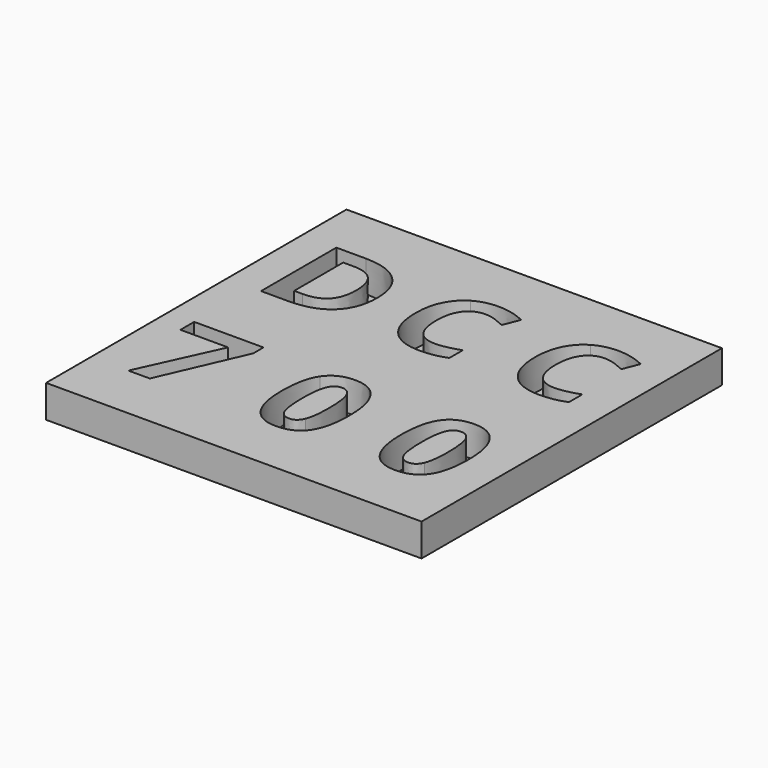
from build123d import *

# Parameters (mm, degrees)
F0_W     = 76.2
F0_H     = 76.2
F1_DEPTH = 6.35
F2_W     = 76.2
F2_H     = 76.2
F3_DEPTH = 0.254


with BuildPart() as f1:
    # F0 (on Top) → F1 (new body)
    with BuildSketch(Plane.XY):
        Rectangle(F0_W, F0_H)
        Polygon((-26.1997501053, -26.6633986117), (-30.5446360985, -26.6633986117), (-23.1844935868, -10.5791710949), (-32.8478974789, -10.5791710949), (-32.8478974789, -7.0921105693), (-18.7881380656, -7.0921105693), (-18.7881380656, -9.6956108634), align=None, mode=Mode.SUBTRACT)
        with BuildLine():
            add(Edge.make_bspline(
                [(4.7201846353, -9.3310350396), (6.4551366434, -11.9045114423), (6.4551366434, -16.8670317722)],
                knots=[0, 0, 0, 1, 1, 1], degree=2))
            add(Edge.make_bspline(
                [(6.4551366434, -16.8670317722), (6.4551366434, -21.9968280682), (4.773798727, -24.4652208511)],
                knots=[0, 0, 0, 1, 1, 1], degree=2))
            add(Edge.make_bspline(
                [(4.773798727, -24.4652208511), (3.0924608106, -26.933613634), (-0.4074670971, -26.933613634)],
                knots=[0, 0, 0, 1, 1, 1], degree=2))
            add(Edge.make_bspline(
                [(-0.4074670971, -26.933613634), (-3.8001668213, -26.933613634), (-5.5222514474, -24.3858719953)],
                knots=[0, 0, 0, 1, 1, 1], degree=2))
            add(Edge.make_bspline(
                [(-5.5222514474, -24.3858719953), (-7.2443360735, -21.8381303567), (-7.2443360735, -16.8670317722)],
                knots=[0, 0, 0, 1, 1, 1], degree=2))
            add(Edge.make_bspline(
                [(-7.2443360735, -16.8670317722), (-7.2443360735, -11.6771876934), (-5.5672872845, -9.2173731652)],
                knots=[0, 0, 0, 1, 1, 1], degree=2))
            add(Edge.make_bspline(
                [(-5.5672872845, -9.2173731652), (-3.8902384954, -6.757558637), (-0.4074670971, -6.757558637)],
                knots=[0, 0, 0, 1, 1, 1], degree=2))
            add(Edge.make_bspline(
                [(-0.4074670971, -6.757558637), (2.9852326271, -6.757558637), (4.7201846353, -9.3310350396)],
                knots=[0, 0, 0, 1, 1, 1], degree=2))
        make_face(mode=Mode.SUBTRACT)
        with BuildLine():
            add(Edge.make_bspline(
                [(28.8993512339, -9.3310350396), (30.6343032421, -11.9045114423), (30.6343032421, -16.8670317722)],
                knots=[0, 0, 0, 1, 1, 1], degree=2))
            add(Edge.make_bspline(
                [(30.6343032421, -16.8670317722), (30.6343032421, -21.9968280682), (28.9529653256, -24.4652208511)],
                knots=[0, 0, 0, 1, 1, 1], degree=2))
            add(Edge.make_bspline(
                [(28.9529653256, -24.4652208511), (27.2716274092, -26.933613634), (23.7716995016, -26.933613634)],
                knots=[0, 0, 0, 1, 1, 1], degree=2))
            add(Edge.make_bspline(
                [(23.7716995016, -26.933613634), (20.3789997774, -26.933613634), (18.6569151512, -24.3858719953)],
                knots=[0, 0, 0, 1, 1, 1], degree=2))
            add(Edge.make_bspline(
                [(18.6569151512, -24.3858719953), (16.9348305251, -21.8381303567), (16.9348305251, -16.8670317722)],
                knots=[0, 0, 0, 1, 1, 1], degree=2))
            add(Edge.make_bspline(
                [(16.9348305251, -16.8670317722), (16.9348305251, -11.6771876934), (18.6118793142, -9.2173731652)],
                knots=[0, 0, 0, 1, 1, 1], degree=2))
            add(Edge.make_bspline(
                [(18.6118793142, -9.2173731652), (20.2889281033, -6.757558637), (23.7716995016, -6.757558637)],
                knots=[0, 0, 0, 1, 1, 1], degree=2))
            add(Edge.make_bspline(
                [(23.7716995016, -6.757558637), (27.1643992258, -6.757558637), (28.8993512339, -9.3310350396)],
                knots=[0, 0, 0, 1, 1, 1], degree=2))
        make_face(mode=Mode.SUBTRACT)
        with BuildLine():
            add(Edge.make_bspline(
                [(-17.9196880537, 24.4092303388), (-15.3316932729, 21.9403920221), (-15.3316932729, 17.5086077449)],
                knots=[0, 0, 0, 1, 1, 1], degree=2))
            add(Edge.make_bspline(
                [(-15.3316932729, 17.5086077449), (-15.3316932729, 12.7925203253), (-18.017939875, 10.2839631872)],
                knots=[0, 0, 0, 1, 1, 1], degree=2))
            add(Edge.make_bspline(
                [(-18.017939875, 10.2839631872), (-20.704186477, 7.7754060491), (-25.7714718959, 7.7754060491)],
                knots=[0, 0, 0, 1, 1, 1], degree=2))
            Line((-25.7714718959, 7.7754060491), (-31.181593457, 7.7754060491))
            Line((-31.181593457, 7.7754060491), (-31.181593457, 26.8780686555))
            Line((-31.181593457, 26.8780686555), (-25.186141897, 26.8780686555))
            add(Edge.make_bspline(
                [(-25.186141897, 26.8780686555), (-20.5076828345, 26.8780686555), (-17.9196880537, 24.4092303388)],
                knots=[0, 0, 0, 1, 1, 1], degree=2))
        make_face(mode=Mode.SUBTRACT)
        with BuildLine():
            add(Edge.make_bspline(
                [(3.72520735, 23.401626555), (2.6423468521, 23.78000059), (1.5971147112, 23.78000059)],
                knots=[0, 0, 0, 1, 1, 1], degree=2))
            add(Edge.make_bspline(
                [(1.5971147112, 23.78000059), (-0.689853213, 23.78000059), (-1.944131782, 22.0616389504)],
                knots=[0, 0, 0, 1, 1, 1], degree=2))
            add(Edge.make_bspline(
                [(-1.944131782, 22.0616389504), (-3.198410351, 20.3432773109), (-3.198410351, 17.2744757453)],
                knots=[0, 0, 0, 1, 1, 1], degree=2))
            add(Edge.make_bspline(
                [(-3.198410351, 17.2744757453), (-3.198410351, 10.8860169003), (1.5971147112, 10.8860169003)],
                knots=[0, 0, 0, 1, 1, 1], degree=2))
            add(Edge.make_bspline(
                [(1.5971147112, 10.8860169003), (3.6081413503, 10.8860169003), (6.4678964877, 11.8894397556)],
                knots=[0, 0, 0, 1, 1, 1], degree=2))
            Line((6.4678964877, 11.8894397556), (6.4678964877, 8.494525762))
            add(Edge.make_bspline(
                [(6.4678964877, 8.494525762), (4.118214635, 7.5120075496), (1.216650212, 7.5120075496)],
                knots=[0, 0, 0, 1, 1, 1], degree=2))
            add(Edge.make_bspline(
                [(1.216650212, 7.5120075496), (-2.9517355658, 7.5120075496), (-5.1592658473, 10.0414693305)],
                knots=[0, 0, 0, 1, 1, 1], degree=2))
            add(Edge.make_bspline(
                [(-5.1592658473, 10.0414693305), (-7.3667961288, 12.5709311114), (-7.3667961288, 17.2995613167)],
                knots=[0, 0, 0, 1, 1, 1], degree=2))
            add(Edge.make_bspline(
                [(-7.3667961288, 17.2995613167), (-7.3667961288, 20.2805633824), (-6.2818451666, 22.5215410924)],
                knots=[0, 0, 0, 1, 1, 1], degree=2))
            add(Edge.make_bspline(
                [(-6.2818451666, 22.5215410924), (-5.1968942044, 24.7625188024), (-3.1649629225, 25.9561739073)],
                knots=[0, 0, 0, 1, 1, 1], degree=2))
            add(Edge.make_bspline(
                [(-3.1649629225, 25.9561739073), (-1.1330316407, 27.1498290122), (1.5971147112, 27.1498290122)],
                knots=[0, 0, 0, 1, 1, 1], degree=2))
            add(Edge.make_bspline(
                [(1.5971147112, 27.1498290122), (4.3774322059, 27.1498290122), (7.1870162006, 25.8077509433)],
                knots=[0, 0, 0, 1, 1, 1], degree=2))
            Line((7.1870162006, 25.8077509433), (5.8825664888, 22.5131792353))
            add(Edge.make_bspline(
                [(5.8825664888, 22.5131792353), (4.808067848, 23.02325252), (3.72520735, 23.401626555)],
                knots=[0, 0, 0, 1, 1, 1], degree=2))
        make_face(mode=Mode.SUBTRACT)
        with BuildLine():
            add(Edge.make_bspline(
                [(27.9946381304, 23.401626555), (26.9117776325, 23.78000059), (25.8665454916, 23.78000059)],
                knots=[0, 0, 0, 1, 1, 1], degree=2))
            add(Edge.make_bspline(
                [(25.8665454916, 23.78000059), (23.5795775674, 23.78000059), (22.3252989984, 22.0616389504)],
                knots=[0, 0, 0, 1, 1, 1], degree=2))
            add(Edge.make_bspline(
                [(22.3252989984, 22.0616389504), (21.0710204294, 20.3432773109), (21.0710204294, 17.2744757453)],
                knots=[0, 0, 0, 1, 1, 1], degree=2))
            add(Edge.make_bspline(
                [(21.0710204294, 17.2744757453), (21.0710204294, 10.8860169003), (25.8665454916, 10.8860169003)],
                knots=[0, 0, 0, 1, 1, 1], degree=2))
            add(Edge.make_bspline(
                [(25.8665454916, 10.8860169003), (27.8775721307, 10.8860169003), (30.7373272681, 11.8894397556)],
                knots=[0, 0, 0, 1, 1, 1], degree=2))
            Line((30.7373272681, 11.8894397556), (30.7373272681, 8.494525762))
            add(Edge.make_bspline(
                [(30.7373272681, 8.494525762), (28.3876454154, 7.5120075496), (25.4860809924, 7.5120075496)],
                knots=[0, 0, 0, 1, 1, 1], degree=2))
            add(Edge.make_bspline(
                [(25.4860809924, 7.5120075496), (21.3176952146, 7.5120075496), (19.1101649331, 10.0414693305)],
                knots=[0, 0, 0, 1, 1, 1], degree=2))
            add(Edge.make_bspline(
                [(19.1101649331, 10.0414693305), (16.9026346516, 12.5709311114), (16.9026346516, 17.2995613167)],
                knots=[0, 0, 0, 1, 1, 1], degree=2))
            add(Edge.make_bspline(
                [(16.9026346516, 17.2995613167), (16.9026346516, 20.2805633824), (17.9875856138, 22.5215410924)],
                knots=[0, 0, 0, 1, 1, 1], degree=2))
            add(Edge.make_bspline(
                [(17.9875856138, 22.5215410924), (19.072536576, 24.7625188024), (21.1044678579, 25.9561739073)],
                knots=[0, 0, 0, 1, 1, 1], degree=2))
            add(Edge.make_bspline(
                [(21.1044678579, 25.9561739073), (23.1363991397, 27.1498290122), (25.8665454916, 27.1498290122)],
                knots=[0, 0, 0, 1, 1, 1], degree=2))
            add(Edge.make_bspline(
                [(25.8665454916, 27.1498290122), (28.6468629863, 27.1498290122), (31.456446981, 25.8077509433)],
                knots=[0, 0, 0, 1, 1, 1], degree=2))
            Line((31.456446981, 25.8077509433), (30.1519972692, 22.5131792353))
            add(Edge.make_bspline(
                [(30.1519972692, 22.5131792353), (29.0774986284, 23.02325252), (27.9946381304, 23.401626555)],
                knots=[0, 0, 0, 1, 1, 1], degree=2))
        make_face(mode=Mode.SUBTRACT)
    extrude(amount=F1_DEPTH)



with BuildPart() as f1b:
    # F0 (on Top) → F1, piece 2 (new body)
    with BuildSketch(Plane.XY):
        with BuildLine():
            add(Edge.make_bspline(
                [(-25.3951883252, 11.1201488999), (-19.5418883363, 11.1201488999), (-19.5418883363, 17.4040845308)],
                knots=[0, 0, 0, 1, 1, 1], degree=2))
            add(Edge.make_bspline(
                [(-19.5418883363, 17.4040845308), (-19.5418883363, 23.5584113762), (-24.9770954688, 23.5584113762)],
                knots=[0, 0, 0, 1, 1, 1], degree=2))
            Line((-24.9770954688, 23.5584113762), (-27.130273679, 23.5584113762))
            Line((-27.130273679, 23.5584113762), (-27.130273679, 11.1201488999))
            Line((-27.130273679, 11.1201488999), (-25.3951883252, 11.1201488999))
        make_face()
    extrude(amount=F1_DEPTH)


with BuildPart() as f1c:
    # F0 (on Top) → F1, piece 3 (new body)
    with BuildSketch(Plane.XY):
        with BuildLine():
            add(Edge.make_bspline(
                [(-2.4984166743, -11.6857659481), (-3.1267738293, -13.2598756811), (-3.1267738293, -16.8670317722)],
                knots=[0, 0, 0, 1, 1, 1], degree=2))
            add(Edge.make_bspline(
                [(-3.1267738293, -16.8670317722), (-3.1267738293, -20.4698987359), (-2.5048503653, -22.0311410869)],
                knots=[0, 0, 0, 1, 1, 1], degree=2))
            add(Edge.make_bspline(
                [(-2.5048503653, -22.0311410869), (-1.8829269013, -23.5923834378), (-0.4074670971, -23.5923834378)],
                knots=[0, 0, 0, 1, 1, 1], degree=2))
            add(Edge.make_bspline(
                [(-0.4074670971, -23.5923834378), (1.0422579431, -23.5923834378), (1.6856270438, -22.0118400138)],
                knots=[0, 0, 0, 1, 1, 1], degree=2))
            add(Edge.make_bspline(
                [(1.6856270438, -22.0118400138), (2.3289961444, -20.4312965899), (2.3289961444, -16.8670317722)],
                knots=[0, 0, 0, 1, 1, 1], degree=2))
            add(Edge.make_bspline(
                [(2.3289961444, -16.8670317722), (2.3289961444, -13.2598756811), (1.6770487891, -11.6857659481)],
                knots=[0, 0, 0, 1, 1, 1], degree=2))
            add(Edge.make_bspline(
                [(1.6770487891, -11.6857659481), (1.0251014337, -10.1116562151), (-0.4074670971, -10.1116562151)],
                knots=[0, 0, 0, 1, 1, 1], degree=2))
            add(Edge.make_bspline(
                [(-0.4074670971, -10.1116562151), (-1.8700595193, -10.1116562151), (-2.4984166743, -11.6857659481)],
                knots=[0, 0, 0, 1, 1, 1], degree=2))
        make_face()
    extrude(amount=F1_DEPTH)


with BuildPart() as f1d:
    # F0 (on Top) → F1, piece 4 (new body)
    with BuildSketch(Plane.XY):
        with BuildLine():
            add(Edge.make_bspline(
                [(21.6807499244, -11.6857659481), (21.0523927694, -13.2598756811), (21.0523927694, -16.8670317722)],
                knots=[0, 0, 0, 1, 1, 1], degree=2))
            add(Edge.make_bspline(
                [(21.0523927694, -16.8670317722), (21.0523927694, -20.4698987359), (21.6743162334, -22.0311410869)],
                knots=[0, 0, 0, 1, 1, 1], degree=2))
            add(Edge.make_bspline(
                [(21.6743162334, -22.0311410869), (22.2962396974, -23.5923834378), (23.7716995016, -23.5923834378)],
                knots=[0, 0, 0, 1, 1, 1], degree=2))
            add(Edge.make_bspline(
                [(23.7716995016, -23.5923834378), (25.2214245417, -23.5923834378), (25.8647936424, -22.0118400138)],
                knots=[0, 0, 0, 1, 1, 1], degree=2))
            add(Edge.make_bspline(
                [(25.8647936424, -22.0118400138), (26.5081627431, -20.4312965899), (26.5081627431, -16.8670317722)],
                knots=[0, 0, 0, 1, 1, 1], degree=2))
            add(Edge.make_bspline(
                [(26.5081627431, -16.8670317722), (26.5081627431, -13.2598756811), (25.8562153877, -11.6857659481)],
                knots=[0, 0, 0, 1, 1, 1], degree=2))
            add(Edge.make_bspline(
                [(25.8562153877, -11.6857659481), (25.2042680324, -10.1116562151), (23.7716995016, -10.1116562151)],
                knots=[0, 0, 0, 1, 1, 1], degree=2))
            add(Edge.make_bspline(
                [(23.7716995016, -10.1116562151), (22.3091070794, -10.1116562151), (21.6807499244, -11.6857659481)],
                knots=[0, 0, 0, 1, 1, 1], degree=2))
        make_face()
    extrude(amount=F1_DEPTH)


with BuildPart() as f1_1:
    add(f1.part)

    add(f1b.part)  # F3 merges F1b

    add(f1c.part)  # F3 merges F1c

    add(f1d.part)  # F3 merges F1d
    # F2 (on face) → F3 (join)
    with BuildSketch(Plane(origin=(0, 0, 0), x_dir=(1, 0, 0), z_dir=(0, 0, -1))):
        Rectangle(F2_W, F2_H)
    extrude(amount=F3_DEPTH)


solid = f1_1.part
